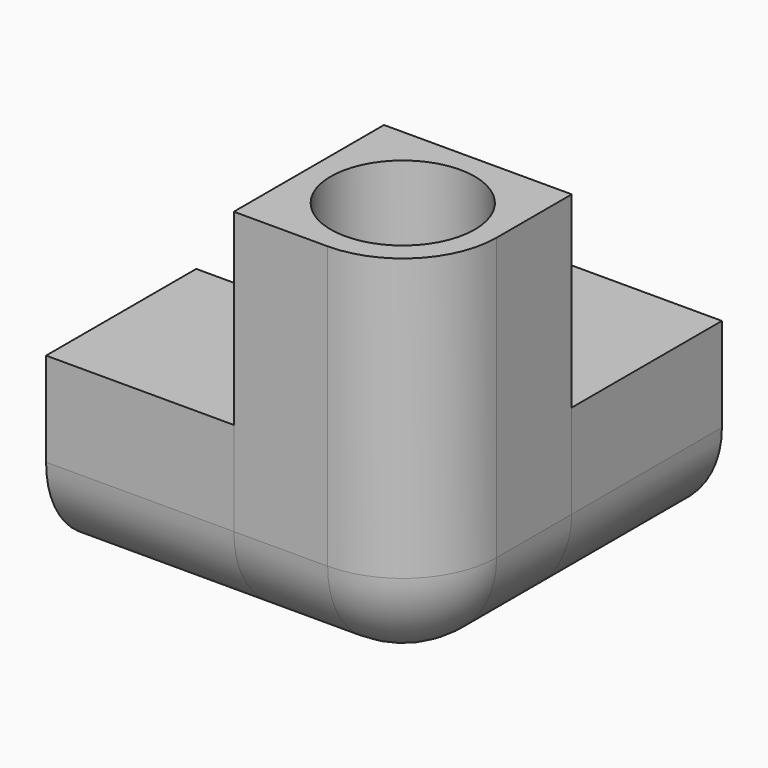
from build123d import *

# Parameters (mm, degrees)
F0_W     = 30
F0_H     = 30
F1_DEPTH = 30
F2_DEPTH = 60
F4_R     = 11.5
F6_DEPTH = 30
F5_R     = 11.5
F7_DEPTH = 30
F3_R     = 11.5
F8_DEPTH = 30
F9_R     = 15
F9_2_R   = 15
F9_3_R   = 15


with BuildPart() as f1:
    # F0 (on Top) → F1 (new body)
    with BuildSketch(Plane.XY):
        with Locations((-15, -15)):
            Rectangle(F0_W, F0_H)
    extrude(amount=F1_DEPTH)

    # F5 (on face) → F7 (cut)
    with BuildSketch(Plane(origin=(-30, 0, 0), x_dir=(0, -1, 0), z_dir=(-1, 0, 0))):
        with Locations((15, 15)):
            Circle(F5_R)
    extrude(amount=-F7_DEPTH, mode=Mode.SUBTRACT)

    # F9#2
    f9_2_edges = [f1.edges().sort_by_distance(p)[0] for p in [
        (-15, -30, 0),
    ]]
    fillet(f9_2_edges, radius=F9_2_R)


with BuildPart() as f1b:
    # F0 (on Top) → F1, piece 2 (new body)
    with BuildSketch(Plane.XY):
        with Locations((15, 15)):
            Rectangle(F0_W, F0_H)
    extrude(amount=F1_DEPTH)

    # F4 (on face) → F6 (cut)
    with BuildSketch(Plane(origin=(0, 30, 0), x_dir=(-1, 0, 0), z_dir=(0, 1, 0))):
        with Locations((-15, 15)):
            Circle(F4_R)
    extrude(amount=-F6_DEPTH, mode=Mode.SUBTRACT)

    # F9#3
    f9_3_edges = [f1b.edges().sort_by_distance(p)[0] for p in [
        (30, 15, 0),
    ]]
    fillet(f9_3_edges, radius=F9_3_R)


with BuildPart() as f2:
    # F0 (on Top) → F2 (new body)
    with BuildSketch(Plane.XY):
        with Locations((15, -15)):
            Rectangle(F0_W, F0_H)
    extrude(amount=F2_DEPTH)

    # F3 (on face) → F8 (cut)
    with BuildSketch(Plane.XY.offset(60)):
        with Locations((15, -15)):
            Circle(F3_R)
    extrude(amount=-F8_DEPTH, mode=Mode.SUBTRACT)

    # F9
    f9_edges = [f2.edges().sort_by_distance(p)[0] for p in [
        (15, -30, 0),
        (30, -15, 0),
        (30, -30, 30),
    ]]
    fillet(f9_edges, radius=F9_R)


solid = Compound([f1.part, f1b.part, f2.part])
